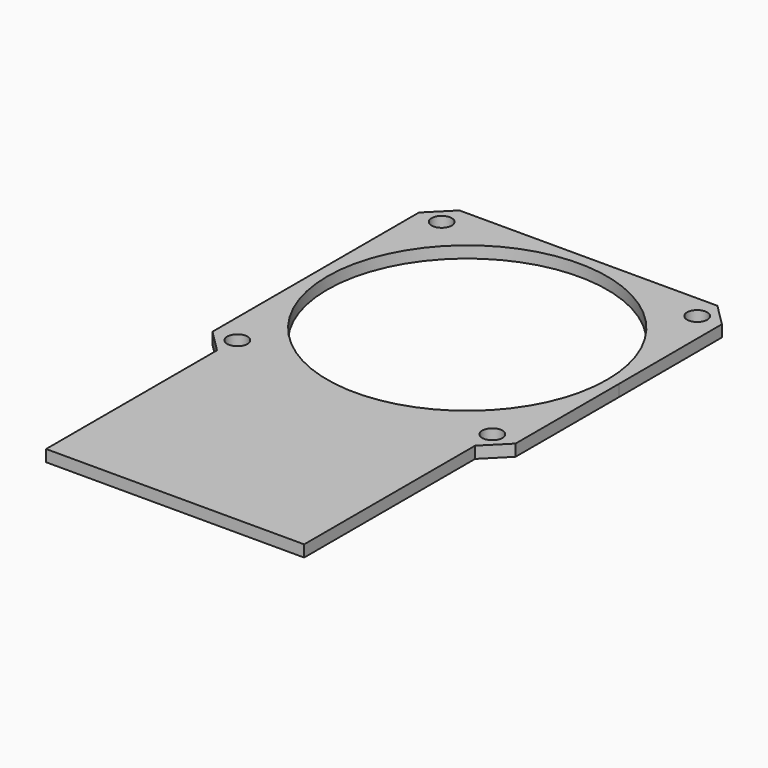
from build123d import *

# Parameters (mm, degrees)
F0_R      = 2.75
F0_R_2    = 38.1
F1_DEPTH  = 3.175
F1_FACE_W = 70.270316
F1_FACE_H = 3.175
F2_DEPTH  = 58.1721


with BuildPart() as f1:
    # F0 (on Top) → F1 (new body)
    with BuildSketch(Plane.XY):
        Polygon((-35.238731, 158.243985), (-41.35935, 152.123366), (-41.35935, 81.864604), (-35.238731, 75.743985), (35.031584, 75.743985), (41.14065, 81.875933), (41.14065, 117.032539), (41.07491, 152.200414), (35.008702, 158.243985), align=None)
        with Locations((-34.765504, 82.071342)):
            Circle(F0_R, mode=Mode.SUBTRACT)
        with Locations((34.612026, 82.136187)):
            Circle(F0_R, mode=Mode.SUBTRACT)
        with Locations((-0.10935, 116.993985)):
            Circle(F0_R_2, mode=Mode.SUBTRACT)
        with Locations((-34.895826, 151.786816)):
            Circle(F0_R, mode=Mode.SUBTRACT)
        with Locations((34.612026, 151.851782)):
            Circle(F0_R, mode=Mode.SUBTRACT)
    extrude(amount=F1_DEPTH)

    # F1_face (on face) → F2 (join)
    with BuildSketch(Plane(origin=(-0.103573, 75.743985, 1.5875), x_dir=(1, 0, 0), z_dir=(0, -1, 0))):
        Rectangle(F1_FACE_W, F1_FACE_H)
    extrude(amount=F2_DEPTH)


solid = f1.part
